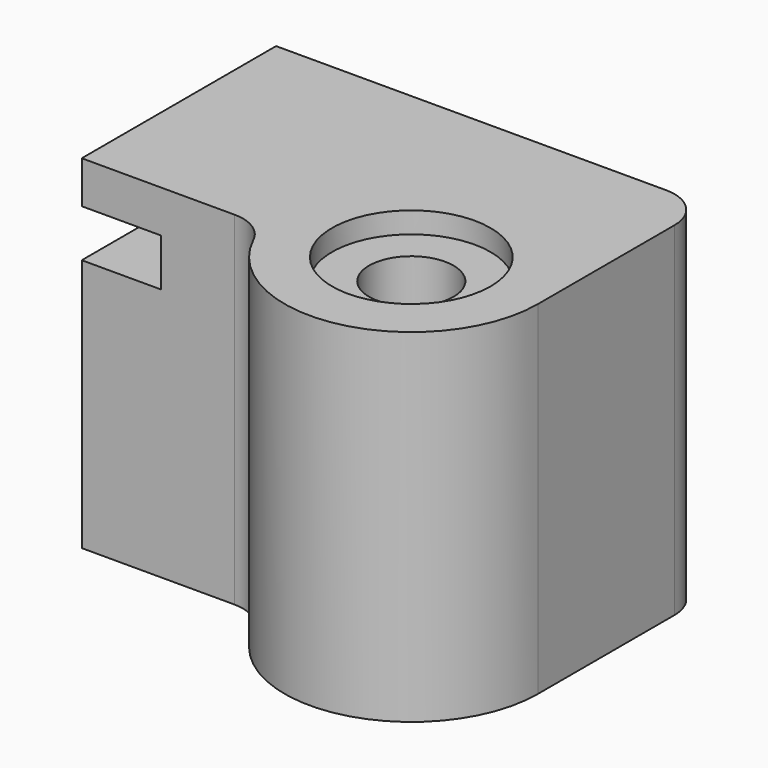
from build123d import *

# Parameters (mm, degrees)
SKETCH028_R     = 1.6
PAD016_DEPTH    = 13
SKETCH029_W     = 3
SKETCH029_H     = 1.8
POCKET010_DEPTH = 12.861
SKETCH030_R     = 3
POCKET011_DEPTH = 0.8


with BuildPart() as part:
    # Sketch028 (on Face1 of Binder006) → Pad016 (new body)
    with BuildSketch(Plane.XY.offset(95.6)):
        with BuildLine():
            ThreePointArc((38.842146, -4.595), (44.233162, -7.223038), (47.98, -2.54))
            Line((47.98, 3.92), (47.98, -2.54))
            ThreePointArc((47.98, 3.92), (47.511371, 5.051371), (46.38, 5.52))
            Line((31.61, 5.52), (46.38, 5.52))
            Line((31.61, -3.68), (31.61, 5.52))
            Line((37.396195, -3.68), (31.61, -3.68))
            ThreePointArc((38.842146, -4.595), (38.251765, -3.927964), (37.396195, -3.68))
        make_face()
        with Locations((43.18, -2.54)):
            Circle(SKETCH028_R, mode=Mode.SUBTRACT)
    extrude(amount=PAD016_DEPTH)

    # Sketch029 (on Face4 of Pad016) → Pocket010 (cut, through all)
    with BuildSketch(Plane(origin=(0, 5.52, 0), x_dir=(-1, 0, 0), z_dir=(0, 1, 0))):
        with Locations((-33.11, 106.1)):
            Rectangle(SKETCH029_W, SKETCH029_H)
    extrude(amount=-POCKET010_DEPTH, mode=Mode.SUBTRACT)

    # Sketch030 (on Face5 of Pocket010) → Pocket011 (cut)
    with BuildSketch(Plane.XY.offset(108.6)):
        with Locations((43.18, -2.54)):
            Circle(SKETCH030_R)
    extrude(amount=-POCKET011_DEPTH, mode=Mode.SUBTRACT)


solid = part.part
